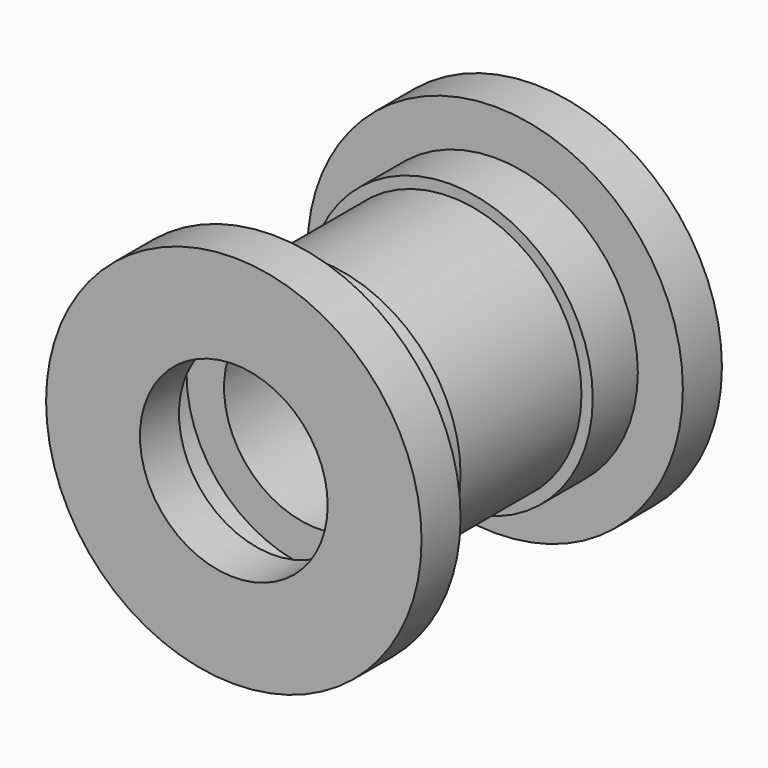
from build123d import *

# Parameters (mm, degrees)
F0_R     = 25
F0_R_2   = 12.5
F1_DEPTH = 6.5
F2_R     = 19
F2_R_2   = 12.5
F3_DEPTH = 7.5
F4_R     = 17.5
F4_R_2   = 12.5
F5_DEPTH = 22
F6_R     = 19
F6_R_2   = 17.5
F7_DEPTH = 7.5
F8_R     = 25
F8_R_2   = 19
F8_R_3   = 17.5
F8_R_4   = 12.5
F9_DEPTH = 6.5


with BuildPart() as f1:
    # F0 (on Front) → F1 (new body)
    with BuildSketch(Plane.XZ):
        with Locations((-103.9080694318, 30.2519872785)):
            Circle(F0_R)
        with Locations((-103.9080694318, 30.2519872785)):
            Circle(F0_R_2, mode=Mode.SUBTRACT)
    extrude(amount=F1_DEPTH)

    # F2 (on face) → F3 (join)
    with BuildSketch(Plane.XZ.offset(6.5)):
        with Locations((-103.9080694318, 30.2519872785)):
            Circle(F2_R)
        with Locations((-103.9080694318, 30.2519872785)):
            Circle(F2_R_2, mode=Mode.SUBTRACT)
    extrude(amount=F3_DEPTH)


with BuildPart() as f5:
    # F4 (on face) → F5 (new body)
    with BuildSketch(Plane.XZ.offset(14)):
        with Locations((-103.9080694318, 30.2519872785)):
            Circle(F4_R)
        with Locations((-103.9080694318, 30.2519872785)):
            Circle(F4_R_2, mode=Mode.SUBTRACT)
    extrude(amount=F5_DEPTH)


with BuildPart() as f7:
    # F6 (on face) → F7 (new body)
    with BuildSketch(Plane.XZ.offset(36)):
        with Locations((-103.9080694318, 30.2519872785)):
            Circle(F6_R)
        with Locations((-103.9080694318, 30.2519872785)):
            Circle(F6_R_2, mode=Mode.SUBTRACT)
    extrude(amount=F7_DEPTH)


with BuildPart() as f9:
    # F8 (on face) → F9 (new body)
    with BuildSketch(Plane.XZ.offset(43.5)):
        with Locations((-103.9080694318, 30.2519872785)):
            Circle(F8_R)
        with Locations((-103.9080694318, 30.2519872785)):
            Circle(F8_R_2, mode=Mode.SUBTRACT)
        with Locations((-103.9080694318, 30.2519872785)):
            Circle(F8_R_2)
        with Locations((-103.9080694318, 30.2519872785)):
            Circle(F8_R_3, mode=Mode.SUBTRACT)
        with Locations((-103.9080694318, 30.2519872785)):
            Circle(F8_R_3)
        with Locations((-103.9080694318, 30.2519872785)):
            Circle(F8_R_4, mode=Mode.SUBTRACT)
    extrude(amount=F9_DEPTH)


solid = Compound([f1.part, f5.part, f7.part, f9.part])
